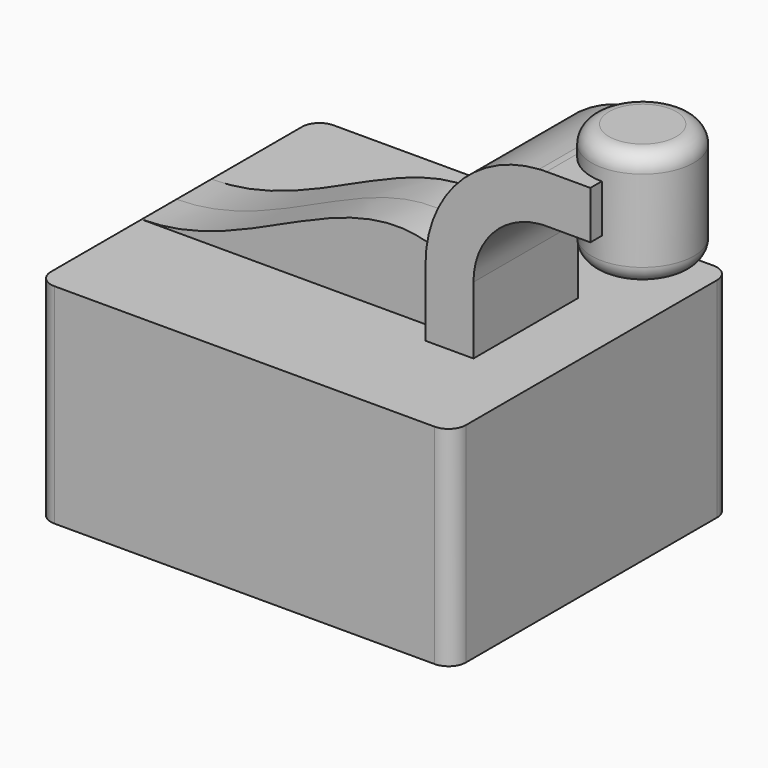
from build123d import *

# Parameters (mm, degrees)
F1_DEPTH = 50.8
F2_DEPTH = 19.05
F3_DEPTH = 19.05
F5_R     = 5.08
F6_R     = 5.08
F7_DEPTH = 12.7


with BuildPart() as f1:
    # F0 (on Front) → F1 (new body, symmetric)
    with BuildSketch(Plane.XZ):
        Polygon((-60.4666993022, 30.4462667555), (-60.4666993022, -30.4462667555), (60.4666993022, -30.4462667555), (60.4666993022, 30.4462667555), (41.3047336042, 30.4462667555), (27.3347329348, 30.4462667555), align=None)
    extrude(amount=F1_DEPTH, both=True)

    # F0 (on Front) → F2 (join, symmetric)
    with BuildSketch(Plane.XZ):
        with BuildLine():
            Line((27.3347329348, 50.0340685248), (27.3347329348, 30.4462667555))
            Line((27.3347329348, 30.4462667555), (41.3047336042, 30.4462667555))
            Line((41.3047336042, 30.4462667555), (41.3047336042, 50.0340685248))
            ThreePointArc((41.3047336042, 50.0340685248), (46.8065044858, 64.3122336797), (60.4666993022, 71.2067648895))
            Line((60.4666993022, 71.2067648895), (60.4666993022, 85.2186777329))
            ThreePointArc((60.4666993022, 85.2186777329), (36.9213956127, 74.1985254838), (27.3347329348, 50.0340685248))
        make_face()
    extrude(amount=F2_DEPTH, both=True)

    # F0 (on Front) → F3 (join, symmetric)
    with BuildSketch(Plane.XZ):
        with BuildLine():
            ThreePointArc((62.5829263954, 85.2822619854), (61.5243353427, 85.2663623363), (60.4666993022, 85.2186777329))
            Line((60.4666993022, 85.2186777329), (60.4666993022, 71.2067648895))
            ThreePointArc((60.4666993022, 71.2067648895), (61.5234988842, 71.2858708439), (62.5829263954, 71.312261316))
            Line((62.5829263954, 71.312261316), (75.3704831004, 71.312261316))
            Line((75.3704831004, 71.312261316), (75.3704831004, 85.2822619854))
            Line((75.3704831004, 85.2822619854), (62.5829263954, 85.2822619854))
        make_face()
    extrude(amount=F3_DEPTH, both=True)

    # F0 (on Front) → F4 (revolve)
    with BuildSketch(Plane.XZ):
        Polygon((90.2742668986, 93.8937179744), (75.3704831004, 93.8937179744), (75.3704831004, 85.2822619854), (75.3704831004, 71.312261316), (75.3704831004, 59.8279722035), (90.2742668986, 59.8279722035), align=None)
    revolve(axis=Axis((75.3704831004, 0, 76.860845089), (0, 0, 1)))

    # F5
    f5_edges = [f1.edges().sort_by_distance(p)[0] for p in [
        (60.466699, -50.8, 0),
        (60.466699, 50.8, 0),
        (-60.466699, 50.8, 0),
        (-60.466699, -50.8, 0),
    ]]
    fillet(f5_edges, radius=F5_R)

    # F6
    f6_edges = [f1.edges().sort_by_distance(p)[0] for p in [
        (60.466699, 0, 93.893718),
        (60.466699, 0, 59.827972),
    ]]
    fillet(f6_edges, radius=F6_R)

    # F0 (on Front) → F7 (join, symmetric)
    with BuildSketch(Plane.XZ):
        with BuildLine():
            add(Edge.make_bspline(
                [(-60.4666993022, 30.4462667555), (-27.2727292031, 30.4462667555), (0, 62.5284537673), (27.3347329348, 50.0340685248)],
                knots=[0, 0, 0, 0, 89.9598437139, 89.9598437139, 89.9598437139, 89.9598437139], degree=3))
            Line((-60.4666993022, 30.4462667555), (27.3347329348, 30.4462667555))
            Line((27.3347329348, 30.4462667555), (27.3347329348, 50.0340685248))
        make_face()
    extrude(amount=F7_DEPTH, both=True)


solid = f1.part
